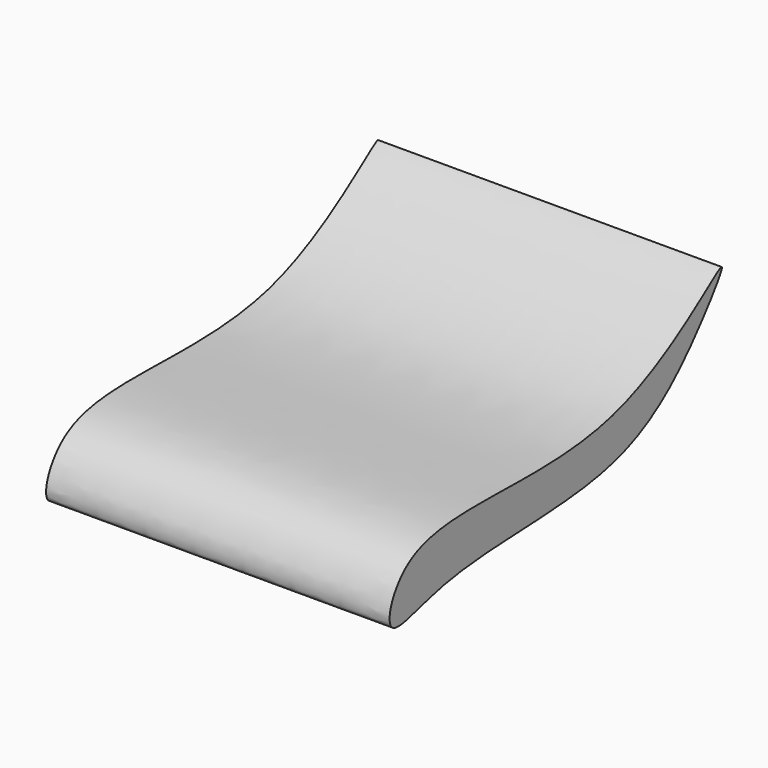
from build123d import *

# Parameters (mm, degrees)
F1_DEPTH = 50.8


with BuildPart() as f1:
    # F0 (on Right) → F1 (new body)
    with BuildSketch(Plane.YZ):
        with BuildLine():
            add(Edge.make_bspline(
                [(-61.3800697029, -14.663525857), (-54.0562416888, -10.2673839827), (-23.976609799, -18.5468016122), (0.3746384071, 5.3803595925), (-9.7875444915, -8.7847261739), (-22.7976462992, -20.5658598901), (-53.6135532181, -18.1198625198), (-67.5227128377, -25.1422086151), (-64.7832514505, -16.7062922571), (-61.3800697029, -14.663525857)],
                knots=[0, 0, 0, 0, 0.2079179982, 0.3665872537, 0.4632142099, 0.6080302274, 0.7965444172, 0.9033862162, 1, 1, 1, 1], degree=3))
        make_face()
    extrude(amount=F1_DEPTH)


solid = f1.part
